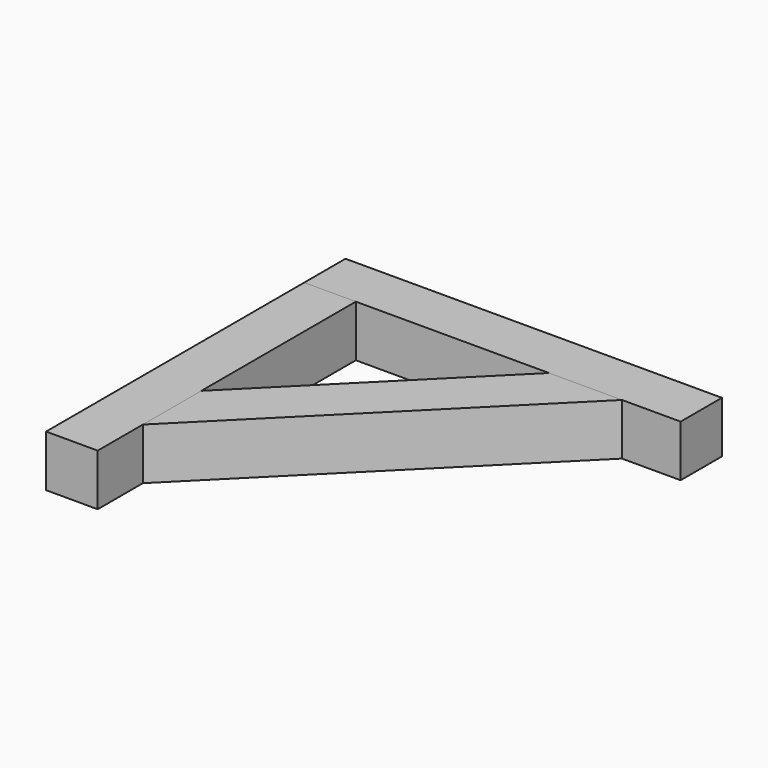
from build123d import *

# Parameters (mm, degrees)
F1_W     = 350
F1_H     = 48
F2_DEPTH = 48
F3_W     = 48
F3_H     = 300
F4_DEPTH = 48
F6_DEPTH = 48


with BuildPart() as f2:
    # F1 (on Top) → F2 (new body)
    with BuildSketch(Plane.XY):
        with Locations((175, -24)):
            Rectangle(F1_W, F1_H)
    extrude(amount=F2_DEPTH)


with BuildPart() as f4:
    # F3 (on Top) → F4 (new body)
    with BuildSketch(Plane.XY):
        with Locations((24, -198)):
            Rectangle(F3_W, F3_H)
    extrude(amount=F4_DEPTH)


with BuildPart() as f6:
    # F5 (on Top) → F6 (new body)
    with BuildSketch(Plane.XY):
        Polygon((48, -295.4873734153), (295.4873734153, -48), (227.6051224214, -48), (48, -227.6051224214), align=None)
    extrude(amount=F6_DEPTH)


solid = Compound([f2.part, f4.part, f6.part])
